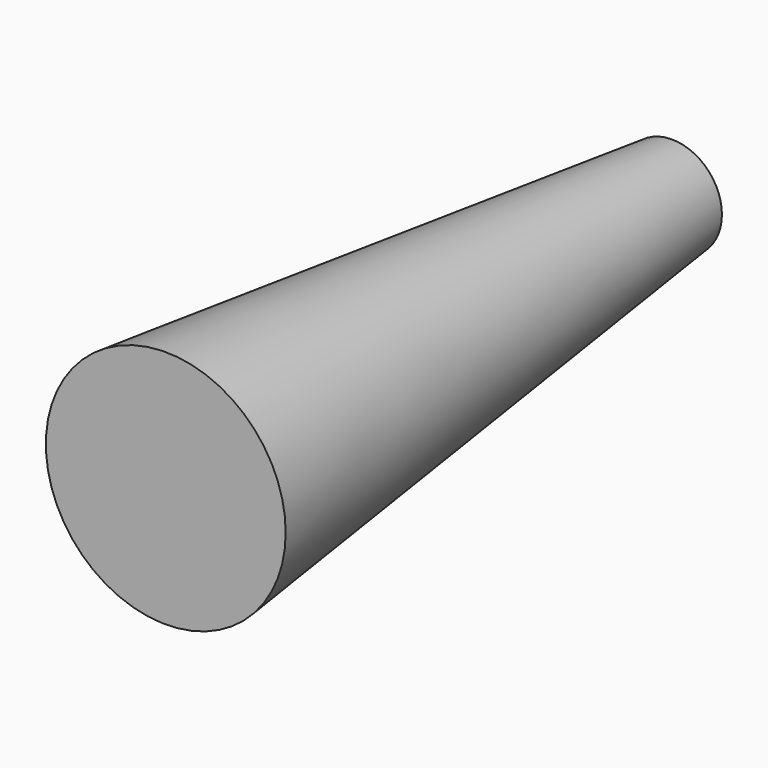
from build123d import *

# Parameters (mm, degrees)
F2_R = 29.3574
F0_R = 12.211518


with BuildPart() as f3:
    # F2 (on offset) → F3 section 0
    with BuildSketch(Plane.XZ.offset(154.922791)):
        Circle(F2_R)
    # F0 (on Front) → F3 section 1
    with BuildSketch(Plane.XZ):
        Circle(F0_R)
    loft()


solid = f3.part
